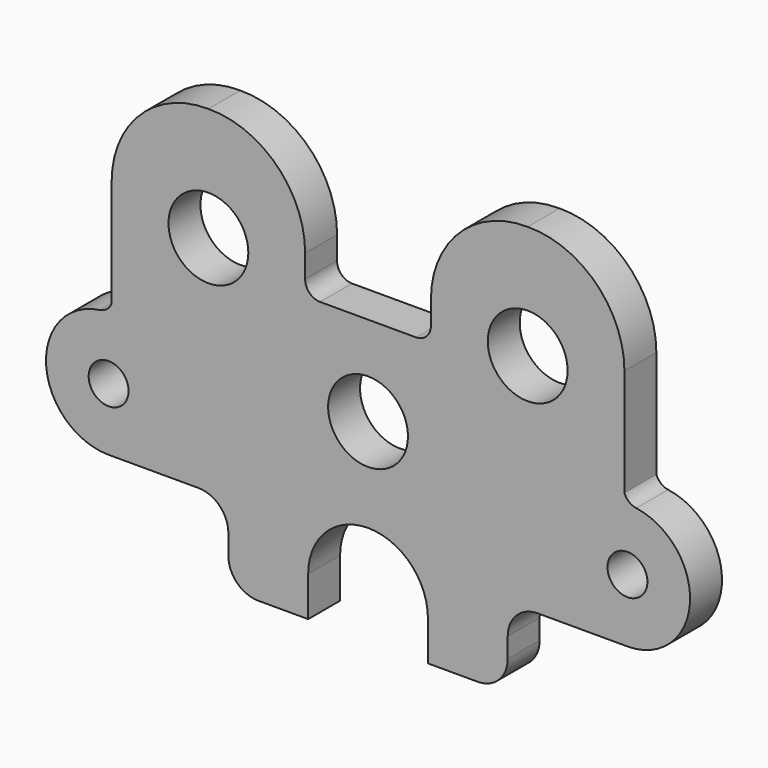
from build123d import *

# Parameters (mm, degrees)
F0_R     = 7.9375
F0_R_2   = 12.7
F0_R_3   = 6.35
F1_DEPTH = 12.7


with BuildPart() as f1:
    # F0 (on Front) → F1 (new body)
    with BuildSketch(Plane.XZ):
        with BuildLine():
            ThreePointArc((-81.591531, 6.579279), (-83.065432, 4.527557), (-85.381328, 3.518312))
            ThreePointArc((-85.381328, 3.518312), (-102.43034, -17.629762), (-82.55, -36.141433))
            Line((-82.55, -36.141433), (-53.975, -36.141433))
            ThreePointArc((-53.975, -36.141433), (-47.239808, -38.93124), (-44.45, -45.666433))
            Line((-44.45, -45.666433), (-44.45, -52.006067))
            ThreePointArc((-44.45, -52.006067), (-41.660192, -58.741259), (-34.925, -61.531067))
            Line((-34.925, -61.531067), (-19.05, -61.531067))
            Line((-19.05, -61.531067), (-19.05, -48.831067))
            ThreePointArc((-19.05, -48.831067), (-13.470384, -35.360683), (0, -29.781067))
            ThreePointArc((0, -29.781067), (13.470384, -35.360683), (19.05, -48.831067))
            Line((19.05, -48.831067), (19.05, -61.531067))
            Line((19.05, -61.531067), (34.925, -61.531067))
            ThreePointArc((34.925, -61.531067), (41.660192, -58.741259), (44.45, -52.006067))
            Line((44.45, -52.006067), (44.45, -45.666433))
            ThreePointArc((44.45, -45.666433), (47.239808, -38.93124), (53.975, -36.141433))
            Line((53.975, -36.141433), (82.55, -36.141433))
            ThreePointArc((82.55, -36.141433), (102.430496, -17.627581), (85.376997, 3.518933))
            ThreePointArc((85.376997, 3.518933), (83.066464, 4.523169), (81.591531, 6.565625))
            Line((81.591531, 6.565625), (81.591531, 40.712521))
            ThreePointArc((81.591531, 40.712521), (72.547305, 62.338668), (50.8, 71.087554))
            ThreePointArc((50.8, 71.087554), (29.052695, 62.338668), (20.008469, 40.712521))
            Line((20.008469, 40.712521), (20.008469, 33.3375))
            ThreePointArc((20.008469, 33.3375), (18.613565, 29.969904), (15.245969, 28.575))
            Line((15.245969, 28.575), (-15.245969, 28.575))
            ThreePointArc((-15.245969, 28.575), (-18.613565, 29.969904), (-20.008469, 33.3375))
            Line((-20.008469, 33.3375), (-20.008469, 40.712521))
            ThreePointArc((-20.008469, 40.712521), (-29.052695, 62.338668), (-50.8, 71.087554))
            ThreePointArc((-50.8, 71.087554), (-72.547305, 62.338668), (-81.591531, 40.712521))
            Line((-81.591531, 40.712521), (-81.591531, 6.579279))
        make_face()
        with Locations((-82.55, -15.985183)):
            Circle(F0_R, mode=Mode.SUBTRACT)
        Circle(F0_R_2, mode=Mode.SUBTRACT)
        with Locations((82.55, -15.985183)):
            Circle(F0_R, mode=Mode.SUBTRACT)
        with Locations((-50.8, 34.925)):
            Circle(F0_R_2, mode=Mode.SUBTRACT)
        with Locations((50.8, 34.925)):
            Circle(F0_R_2, mode=Mode.SUBTRACT)
        with Locations((-82.55, -15.985183)):
            Circle(F0_R)
        with Locations((-82.55, -16.210495)):
            Circle(F0_R_3, mode=Mode.SUBTRACT)
        with Locations((82.55, -15.985183)):
            Circle(F0_R)
        with Locations((82.55, -15.985183)):
            Circle(F0_R_3, mode=Mode.SUBTRACT)
    extrude(amount=F1_DEPTH)


solid = f1.part
